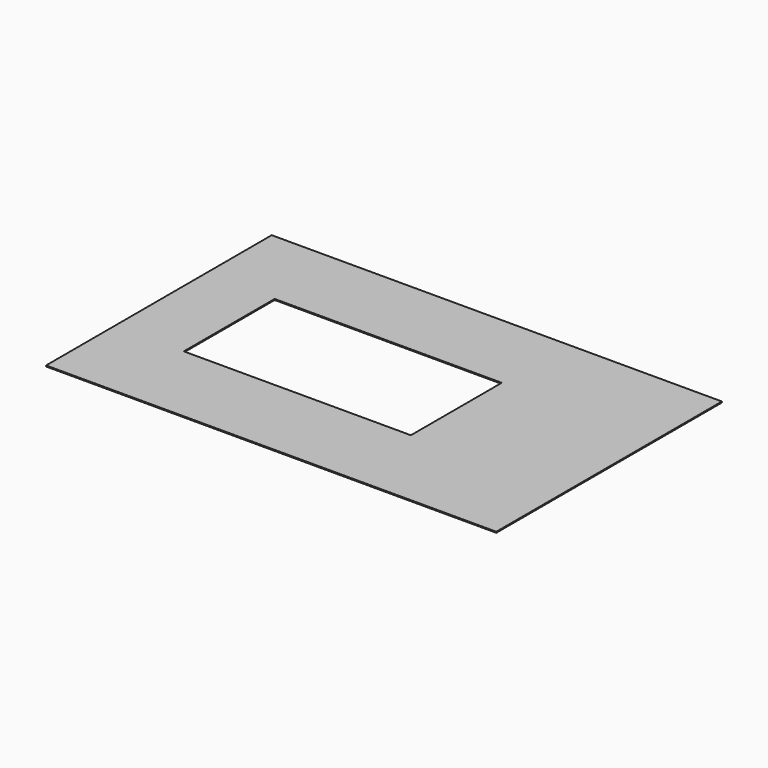
from build123d import *

# Parameters (mm, degrees)
F0_W     = 7251.904488
F0_H     = 4543.069481
F1_DEPTH = 16


with BuildPart() as f1:
    # F0 (on Top) → F1 (new body)
    with BuildSketch(Plane.XY):
        with Locations((-353.335142, -972.205102)):
            Rectangle(F0_W, F0_H)
        Polygon((-2865.476896, -1862.555286), (-2865.476896, -33.755286), (-1366.876896, -33.755286), (792.123104, -33.755286), (792.123104, -1862.555286), align=None, mode=Mode.SUBTRACT)
    extrude(amount=F1_DEPTH)


solid = f1.part
